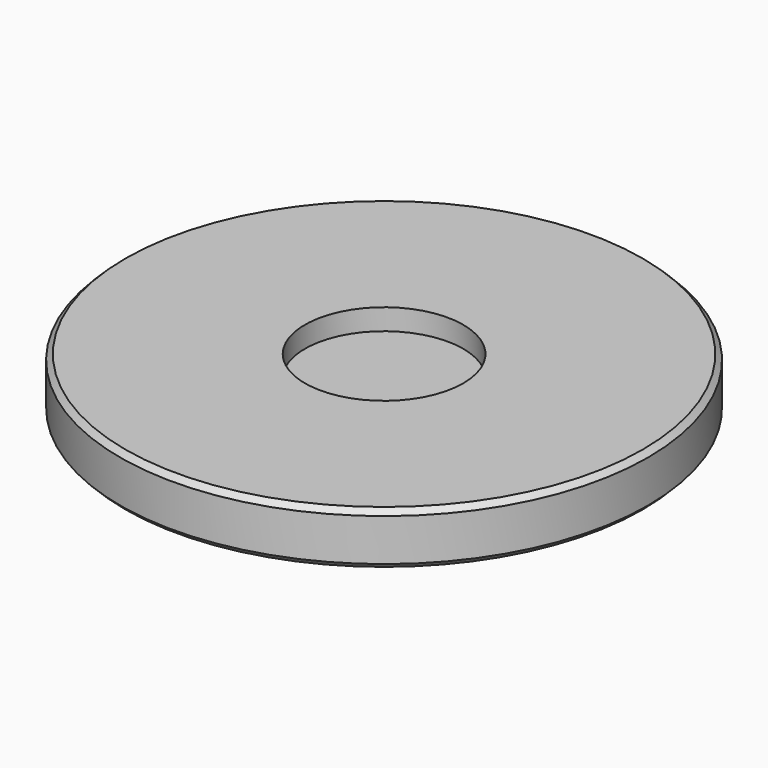
from build123d import *

# Parameters (mm, degrees)
F0_R     = 50
F1_DEPTH = 10
F2_R     = 15
F3_DEPTH = 4
F4_SIZE  = 1


with BuildPart() as f1:
    # F0 (on Top) → F1 (new body)
    with BuildSketch(Plane.XY):
        Circle(F0_R)
    extrude(amount=F1_DEPTH)

    # F2 (on face) → F3 (cut)
    with BuildSketch(Plane.XY.offset(10)):
        Circle(F2_R)
    extrude(amount=-F3_DEPTH, mode=Mode.SUBTRACT)

    # F4
    f4_edges = [f1.edges().sort_by_distance(p)[0] for p in [
        (-50, 0, 10),
        (-50, 0, 0),
    ]]
    chamfer(f4_edges, length=F4_SIZE)


solid = f1.part
